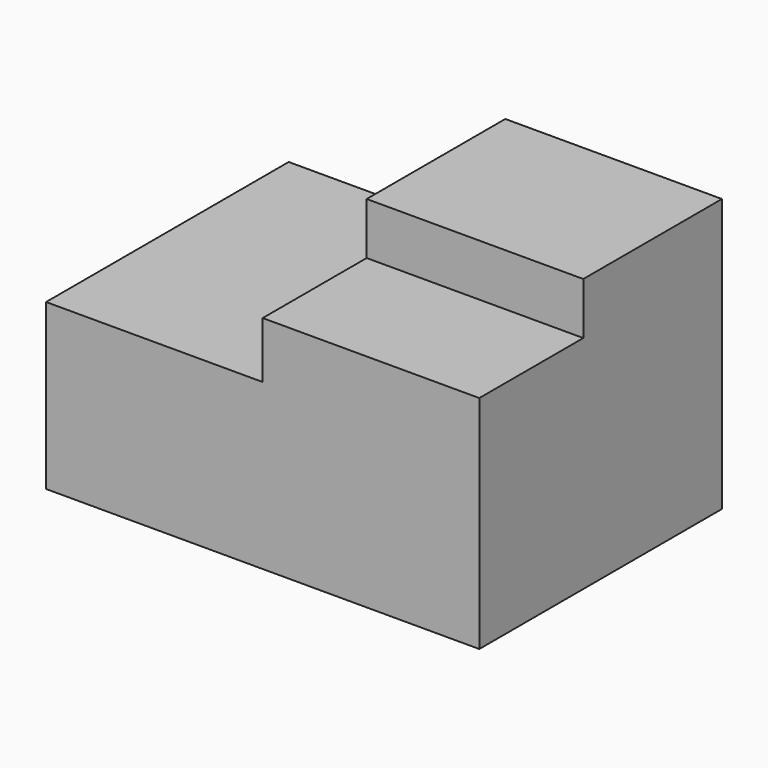
from build123d import *

# Parameters (mm, degrees)
F1_DEPTH = 965.2
F2_W     = 1270
F2_H     = 1778
F3_DEPTH = 330.2
F4_W     = 1270
F4_H     = 1016
F5_DEPTH = 304.8


with BuildPart() as f1:
    # F0 (on Top) → F1 (new body)
    with BuildSketch(Plane.XY):
        Polygon((-1270, -889), (0, -889), (1270, -889), (1270, 889), (-1016, 889), (-1270, 889), align=None)
    extrude(amount=F1_DEPTH)

    # F2 (on face) → F3 (join)
    with BuildSketch(Plane.XY.offset(965.2)):
        with Locations((635, 0)):
            Rectangle(F2_W, F2_H)
    extrude(amount=F3_DEPTH)

    # F4 (on face) → F5 (join)
    with BuildSketch(Plane.XY.offset(1295.4)):
        with Locations((635, 381)):
            Rectangle(F4_W, F4_H)
    extrude(amount=F5_DEPTH)


solid = f1.part
